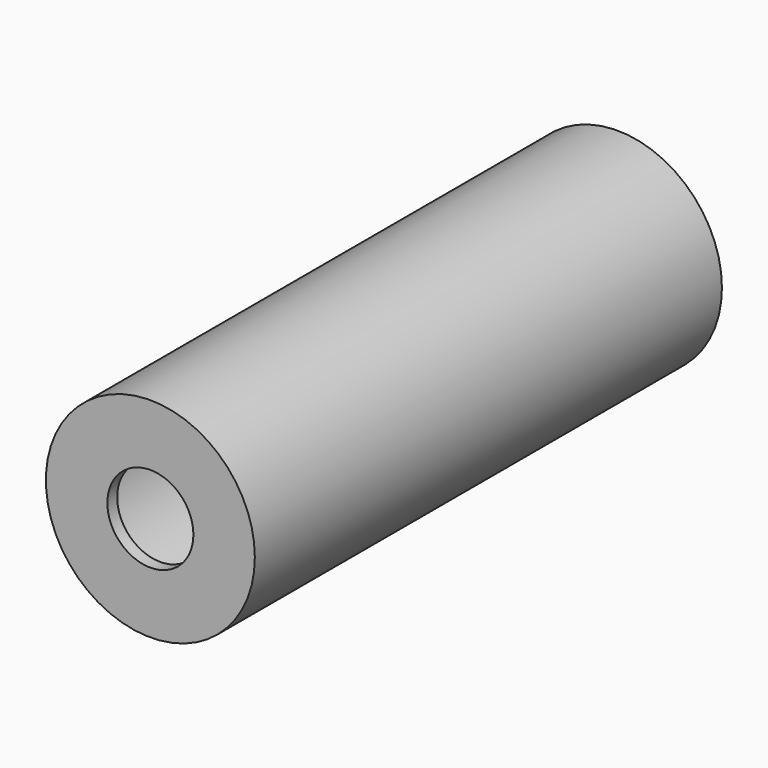
from build123d import *

# Parameters (mm, degrees)
F0_R     = 17
F0_R_2   = 15
F1_DEPTH = 95
F0_R_3   = 7
F2_DEPTH = 2


with BuildPart() as f1:
    # F0 (on Front) → F1 (new body)
    with BuildSketch(Plane.XZ):
        Circle(F0_R)
        Circle(F0_R_2, mode=Mode.SUBTRACT)
    extrude(amount=-F1_DEPTH)

    # F0 (on Front) → F2 (join)
    with BuildSketch(Plane.XZ):
        Circle(F0_R_2)
        Circle(F0_R_3, mode=Mode.SUBTRACT)
    extrude(amount=-F2_DEPTH)


solid = f1.part
